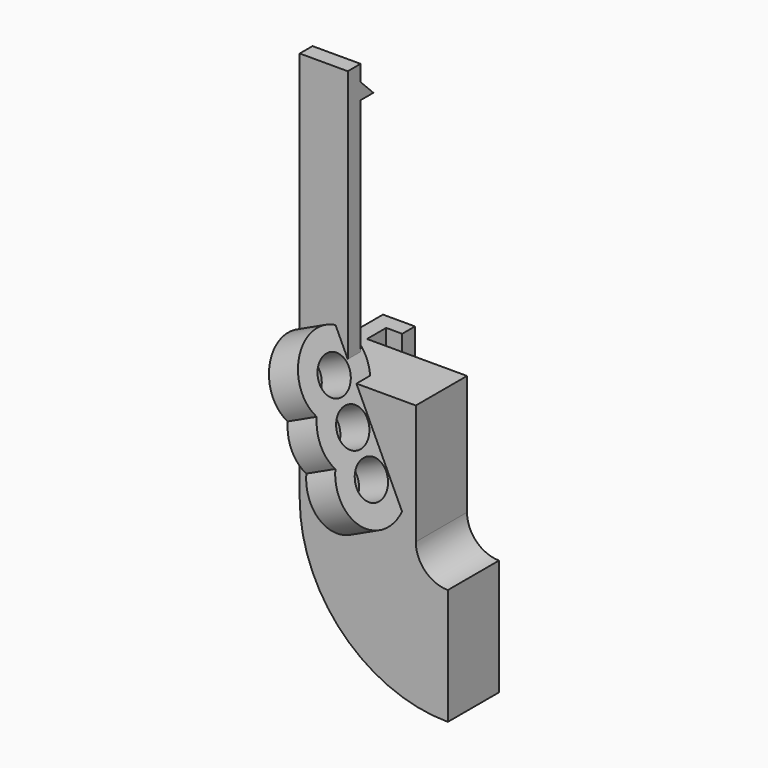
from build123d import *

# Parameters (mm, degrees)
SKETCH002_R  = 2.3
PAD003_DEPTH = 4
PAD_DEPTH    = 15
PAD002_DEPTH = 8
POCKET_DEPTH = 13.001
SKETCH005_W  = 6
SKETCH005_H  = 2
PAD004_DEPTH = 34
PAD005_DEPTH = 6


with BuildPart() as pad003:
    # Sketch002 → Pad003 (new body)
    with BuildSketch(Plane(origin=(5, -2.5, 10), x_dir=(0.422618, 0, -0.906308), z_dir=(0.906308, 0, 0.422618))):
        with BuildLine():
            ThreePointArc((-2.75, 4.175823), (-10.5, 0), (-2.75, -4.175823))
            ThreePointArc((-2.75, -4.175823), (0, -5), (2.75, -4.175823))
            ThreePointArc((2.75, -4.175823), (10.5, 0), (2.75, 4.175823))
            ThreePointArc((2.75, 4.175823), (0, 5), (-2.75, 4.175823))
        make_face()
        with Locations((-5.5, 0)):
            Circle(SKETCH002_R, mode=Mode.SUBTRACT)
        Circle(SKETCH002_R, mode=Mode.SUBTRACT)
        with Locations((5.5, 0)):
            Circle(SKETCH002_R, mode=Mode.SUBTRACT)
    extrude(amount=PAD003_DEPTH)


with BuildPart() as pad005:
    # Sketch → Pad (new body)
    with BuildSketch(Plane.XY):
        Polygon((2, 8), (18.5, 8), (18.5, 0), (0, 0), (0, 13), (4, 13), (4, 11), (2, 11), align=None)
    extrude(amount=PAD_DEPTH)

    # Sketch001 → Pad002 (new body)
    with BuildSketch(Plane.XZ):
        with BuildLine():
            ThreePointArc((0, 0), (5.418525, -13.081475), (18.5, -18.5))
            Line((18.5, 0), (18.5, -18.5))
            Line((18.5, 0), (0, 0))
        make_face()
    extrude(amount=-PAD002_DEPTH)

    # Sketch004 → Pocket (cut, through all)
    with BuildSketch(Plane.XZ):
        with BuildLine():
            Line((14.5, 20), (18.5, 20))
            Line((18.5, 20), (18.5, -4))
            ThreePointArc((14.5, 1.7e-05), (15.671567, -2.828421), (18.5, -4))
            Line((14.5, 20), (14.5, 1.7e-05))
        make_face()
    extrude(amount=-POCKET_DEPTH, mode=Mode.SUBTRACT)

    # Sketch005 → Pad004 (new body)
    with BuildSketch(Plane.XY.offset(15)):
        with Locations((3, 1)):
            Rectangle(SKETCH005_W, SKETCH005_H)
    extrude(amount=PAD004_DEPTH)

    # Sketch006 → Pad005 (new body)
    with BuildSketch(Plane(origin=(0, 0, 0), x_dir=(0, -1, 0), z_dir=(-1, 0, 0))):
        Polygon((0, 49), (0, 45), (-4, 45), align=None)
    extrude(amount=-PAD005_DEPTH)


solid = Compound([pad003.part, pad005.part])
